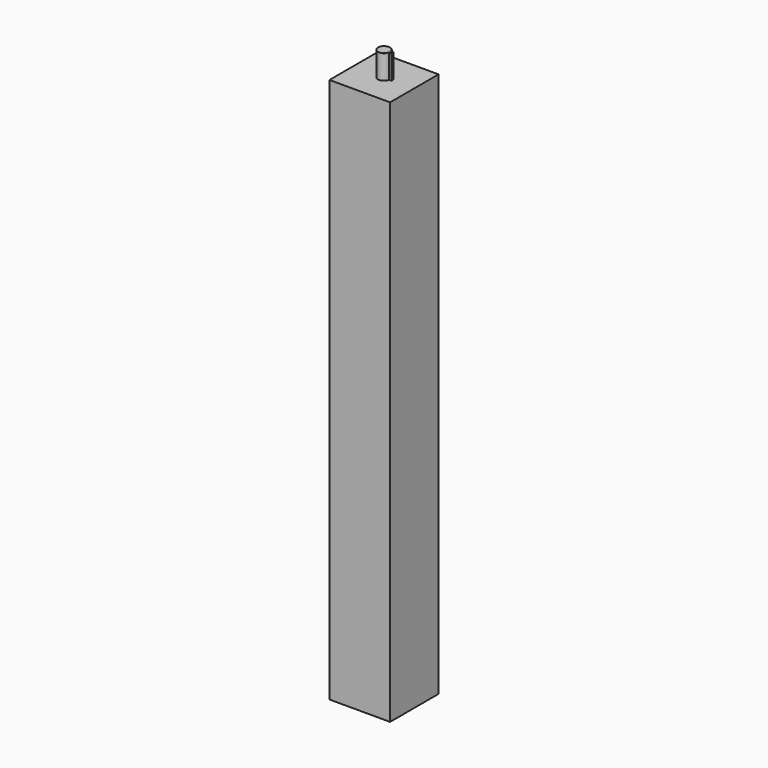
from build123d import *

# Parameters (mm, degrees)
F1_DEPTH = 5
F3_DEPTH = 2
F4_DEPTH = 2
F5_R     = 0.01


with BuildPart() as f1:
    # F0 (on Front) → F1 (new body)
    with BuildSketch(Plane.XZ):
        Polygon((-2.5, 45), (-2.5, 0), (2.5, 0), (2.5, 45), (0, 45), align=None)
    extrude(amount=F1_DEPTH)

    # F2 (on face) → F3 (join)
    with BuildSketch(Plane.XY.offset(45)):
        with BuildLine():
            ThreePointArc((0.489898, -2.6), (0.497468, -2.550254), (0.5, -2.5))
            ThreePointArc((0.5, -2.5), (0.497468, -2.449746), (0.489898, -2.4))
            ThreePointArc((0.489898, -2.4), (-0.5, -2.5), (0.489898, -2.6))
        make_face()
    extrude(amount=F3_DEPTH)

    # F2 (on face) → F4 (join, through all)
    with BuildSketch(Plane.XY.offset(45)):
        with BuildLine():
            ThreePointArc((0.489898, -2.4), (0.497468, -2.449746), (0.5, -2.5))
            ThreePointArc((0.5, -2.5), (0.497468, -2.550254), (0.489898, -2.6))
            Line((0.489898, -2.6), (0.689898, -2.6))
            Line((0.689898, -2.6), (0.689898, -2.5))
            Line((0.689898, -2.5), (0.689898, -2.4))
            Line((0.689898, -2.4), (0.489898, -2.4))
        make_face()
    extrude(amount=F4_DEPTH)

    # F5
    f5_edges = [f1.edges().sort_by_distance(p)[0] for p in [
        (0.589898, -2.6, 47),
        (0.689898, -2.5, 47),
        (0.589898, -2.4, 47),
        (-0.5, -2.5, 47),
    ]]
    fillet(f5_edges, radius=F5_R)


solid = f1.part
